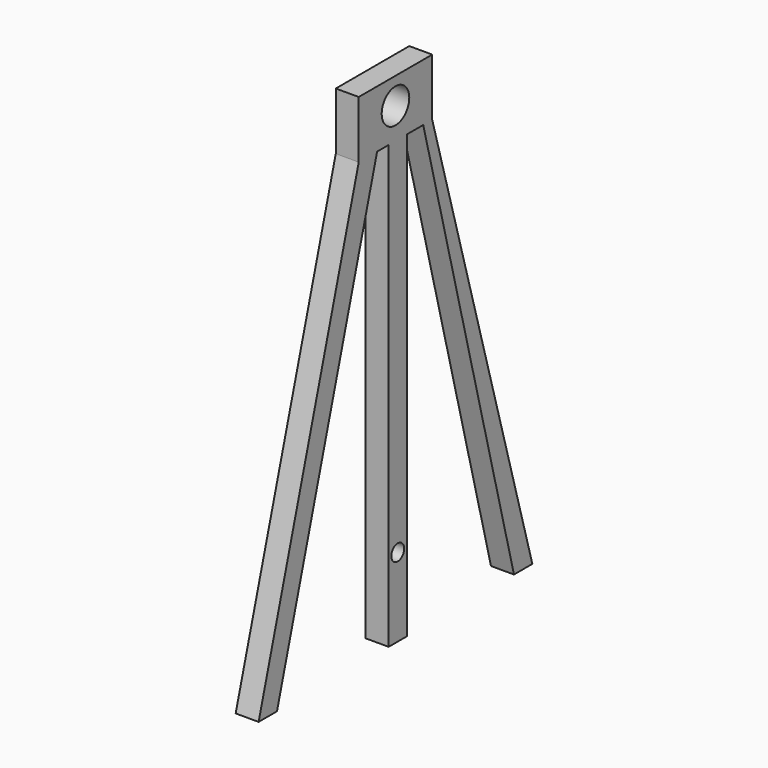
from build123d import *

# Parameters (mm, degrees)
F0_R     = 1.905
F0_W     = 2.54
F0_H     = 48.877514
F0_R_2   = 0.889
F1_DEPTH = 2.54


with BuildPart() as f1:
    # F0 (on Right) → F1 (new body)
    with BuildSketch(Plane.YZ):
        Polygon((-9.460499, 48.877514), (-12.000499, 48.877514), (-25.843499, 0), (-23.303499, 0), align=None)
        Polygon((-3.081667, 48.877514), (-1.840499, 48.877514), (-1.840499, 55.227514), (-12.000499, 55.227514), (-12.000499, 48.877514), (-9.460499, 48.877514), (-7.862003, 48.877514), (-5.322003, 48.877514), align=None)
        with Locations((-6.920499, 52.305337)):
            Circle(F0_R, mode=Mode.SUBTRACT)
        Polygon((12.002501, 0), (-1.840499, 48.877514), (-3.081667, 48.877514), (9.462501, 0), align=None)
        with Locations((-6.592003, 24.438757)):
            Rectangle(F0_W, F0_H)
        with Locations((-6.610252, 8.691132)):
            Circle(F0_R_2, mode=Mode.SUBTRACT)
    extrude(amount=F1_DEPTH)


solid = f1.part
